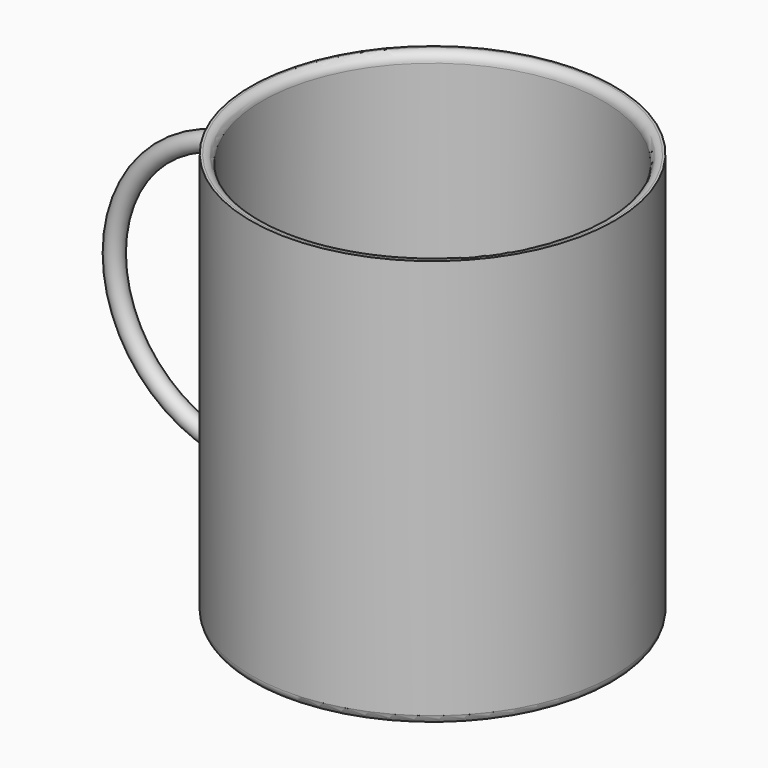
from build123d import *

# Parameters (mm, degrees)
F0_R     = 40
F1_DEPTH = 90
F2_T     = -2.5
F3_R     = 2
F6_R     = 2
F8_R     = 2


with BuildPart() as f1:
    # F0 (on Top) → F1 (new body)
    with BuildSketch(Plane.XY):
        Circle(F0_R)
    extrude(amount=F1_DEPTH)

    # F2
    f2_openings = [f1.faces().sort_by_distance(p)[0] for p in [
        (0, 0, 90),
    ]]
    offset(amount=F2_T, openings=f2_openings)

    # F3
    f3_edges = [f1.edges().sort_by_distance(p)[0] for p in [
        (-37.5, 0, 90),
    ]]
    fillet(f3_edges, radius=F3_R)

    # F7: sweep along a path in F4
    with BuildLine(Plane.XZ) as f7_path:
        ThreePointArc((-40, 78), (-70, 48), (-40, 18))
    # F6 (on offset) → F7 (sweep)
    with BuildSketch(Plane.YZ.offset(-40)):
        with Locations((0, 78)):
            Circle(F6_R)
    sweep(path=f7_path.line)

    # F8
    f8_edges = [f1.edges().sort_by_distance(p)[0] for p in [
        (-40, 0, 0),
    ]]
    fillet(f8_edges, radius=F8_R)


solid = f1.part
